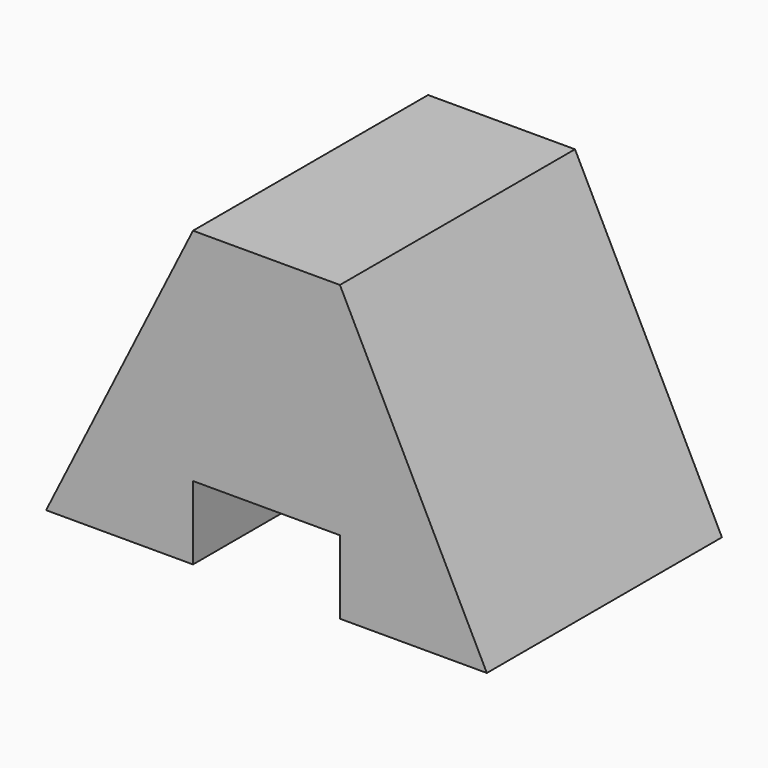
from build123d import *

# Parameters (mm, degrees)
F1_DEPTH = 25.4
F3_DEPTH = 25.4


with BuildPart() as f1:
    # F0 (on Front) → F1 (new body)
    with BuildSketch(Plane.XZ):
        Polygon((0, 25.4), (0, 0), (12.7, 0), (12.7, 6.35), (25.4, 6.35), (25.4, 0), (38.1, 0), (38.1, 25.4), align=None)
    extrude(amount=-F1_DEPTH)

    # F2 (on face) → F3 (cut)
    with BuildSketch(Plane.XZ):
        Polygon((0, 25.4), (0, 0), (12.7, 25.4), align=None)
        Polygon((38.1, 25.4), (25.4, 25.4), (38.1, 0), align=None)
    extrude(amount=-F3_DEPTH, mode=Mode.SUBTRACT)


solid = f1.part
